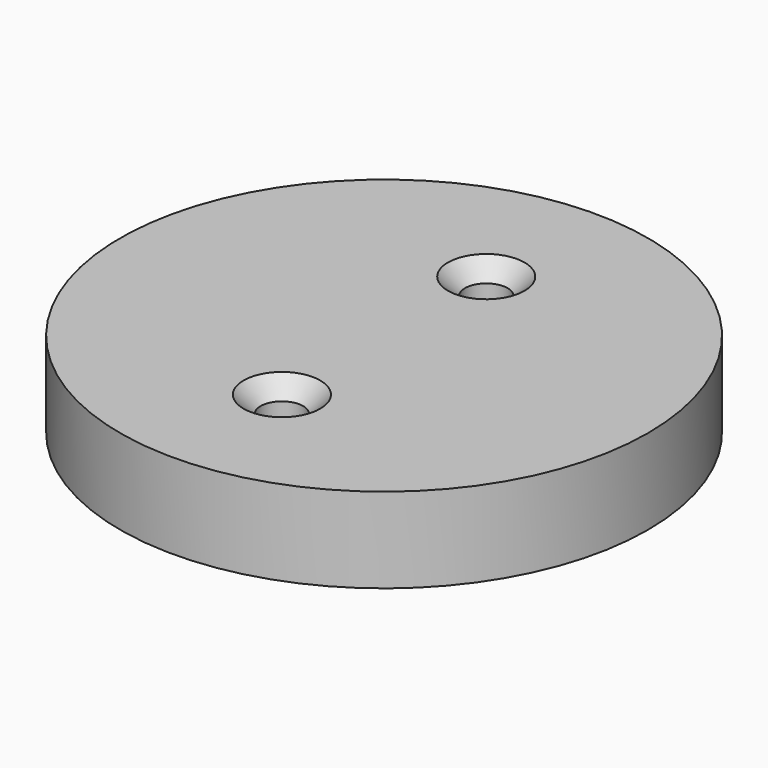
from build123d import *

# Parameters (mm, degrees)
F0_R     = 31
F0_R_2   = 2.5
F1_DEPTH = 10
F2_SIZE  = 2


with BuildPart() as f1:
    # F0 (on Top) → F1 (new body)
    with BuildSketch(Plane.XY):
        Circle(F0_R)
        with Locations((0, -15)):
            Circle(F0_R_2, mode=Mode.SUBTRACT)
        with Locations((0, 15)):
            Circle(F0_R_2, mode=Mode.SUBTRACT)
    extrude(amount=F1_DEPTH)

    # F2
    f2_edges = [f1.edges().sort_by_distance(p)[0] for p in [
        (-2.5, 15, 10),
        (-2.5, -15, 10),
    ]]
    chamfer(f2_edges, length=F2_SIZE)


solid = f1.part
